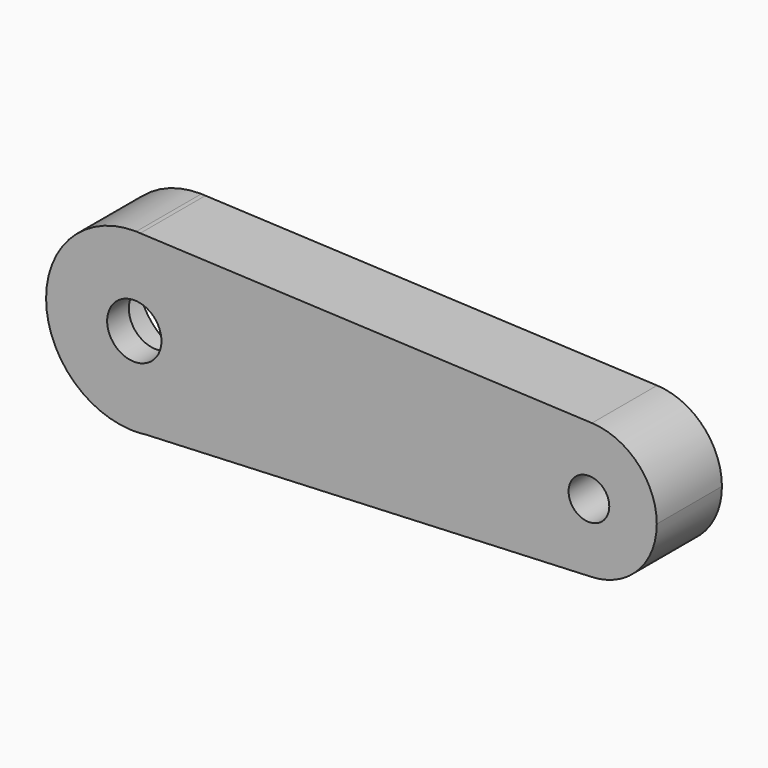
from build123d import *

# Parameters (mm, degrees)
F1_DEPTH = 6
F3_DEPTH = 4
F5_DEPTH = 2


with BuildPart() as f1:
    # F0 (on Front) → F1 (new body)
    with BuildSketch(Plane.XZ):
        with BuildLine():
            Line((0.5280444536, 6.5949463177), (0.2280896806, 6.6083750402))
            ThreePointArc((0.2280896806, 6.6083750402), (-4.4587573432, 4.7555534352), (-6.412563722, 0.1098970168))
            Line((-6.412563722, 0.1098970168), (-1.912563722, 0.1098970168))
            ThreePointArc((-1.912563722, 0.1098970168), (0.087436278, 2.1098970168), (2.087436278, 0.1098970168))
            Line((2.087436278, 0.1098970168), (6.587436278, 0.1098970168))
            ThreePointArc((6.587436278, 0.1098970168), (4.8368548288, 4.5475792304), (0.5280444536, 6.5949463177))
        make_face()
        with BuildLine():
            ThreePointArc((0.5280444536, 6.5949463177), (0.3781446168, 6.6033928905), (0.2280896806, 6.6083750402))
            Line((0.2280896806, 6.6083750402), (0.5280444536, 6.5949463177))
        make_face()
        with BuildLine():
            Line((-1.912563722, 0.1098970168), (-6.412563722, 0.1098970168))
            ThreePointArc((-6.412563722, 0.1098970168), (-4.6032413883, -4.3898299783), (-0.1825504819, -6.3844934203))
            Line((-0.1825504819, -6.3844934203), (0.92817218, -6.3355015856))
            ThreePointArc((0.92817218, -6.3355015856), (4.9718391772, -4.1787634173), (6.587436278, 0.1098970168))
            Line((6.587436278, 0.1098970168), (2.087436278, 0.1098970168))
            ThreePointArc((2.087436278, 0.1098970168), (0.087436278, -1.8901029832), (-1.912563722, 0.1098970168))
        make_face()
        with BuildLine():
            Line((33.8110580771, 5.1048938427), (0.5280444536, 6.5949463177))
            ThreePointArc((0.5280444536, 6.5949463177), (4.8368548288, 4.5475792304), (6.587436278, 0.1098970168))
            Line((6.587436278, 0.1098970168), (28.587436278, 0.1098970168))
            ThreePointArc((28.587436278, 0.1098970168), (30.1318689581, 3.7236283983), (33.8110580771, 5.1048938427))
        make_face()
        with BuildLine():
            Line((0.92817218, -6.3355015856), (-0.1825504819, -6.3844934203))
            ThreePointArc((-0.1825504819, -6.3844934203), (0.3738602571, -6.3837892479), (0.92817218, -6.3355015856))
        make_face()
        with BuildLine():
            Line((28.587436278, 0.1098970168), (6.587436278, 0.1098970168))
            ThreePointArc((6.587436278, 0.1098970168), (4.9718391772, -4.1787634173), (0.92817218, -6.3355015856))
            Line((0.92817218, -6.3355015856), (33.8077624157, -4.8852462637))
            ThreePointArc((33.8077624157, -4.8852462637), (30.1306770073, -3.5026942062), (28.587436278, 0.1098970168))
        make_face()
        with BuildLine():
            ThreePointArc((38.587436278, 0.1098970168), (37.2011676595, 3.5654643367), (33.8110580771, 5.1048938427))
            ThreePointArc((33.8110580771, 5.1048938427), (30.1318689581, 3.7236283983), (28.587436278, 0.1098970168))
            Line((28.587436278, 0.1098970168), (32.087436278, 0.1098970168))
            ThreePointArc((32.087436278, 0.1098970168), (33.587436278, 1.6098970168), (35.087436278, 0.1098970168))
            Line((35.087436278, 0.1098970168), (38.587436278, 0.1098970168))
        make_face()
        with BuildLine():
            Line((32.087436278, 0.1098970168), (28.587436278, 0.1098970168))
            ThreePointArc((28.587436278, 0.1098970168), (30.1306770073, -3.5026942062), (33.8077624157, -4.8852462637))
            ThreePointArc((33.8077624157, -4.8852462637), (37.200027501, -3.3468622539), (38.587436278, 0.1098970168))
            Line((38.587436278, 0.1098970168), (35.087436278, 0.1098970168))
            ThreePointArc((35.087436278, 0.1098970168), (33.587436278, -1.3901029832), (32.087436278, 0.1098970168))
        make_face()
    extrude(amount=F1_DEPTH)

    # F2 (on Front) → F3 (cut)
    with BuildSketch(Plane.XZ):
        with BuildLine():
            Line((2.8225806452, 0), (4.5, 0))
            ThreePointArc((4.5, 0), (4.0590400899, 1.9427283774), (2.8225806452, 3.5047166079))
            Line((2.8225806452, 3.5047166079), (2.8225806452, 0))
        make_face()
        with BuildLine():
            Line((13.5, 0), (4.5, 0))
            ThreePointArc((4.5, 0), (4.0590400899, -1.9427283774), (2.8225806452, -3.5047166079))
            Line((2.8225806452, -3.5047166079), (15.7336008924, -1.9863108073))
            ThreePointArc((15.7336008924, -1.9863108073), (14.1709405177, -1.4945236339), (13.5, 0))
        make_face()
        with BuildLine():
            ThreePointArc((2.8225806452, -3.5047166079), (4.0590400899, -1.9427283774), (4.5, 0))
            Line((4.5, 0), (2.8225806452, 0))
            Line((2.8225806452, 0), (2.8225806452, -3.5047166079))
        make_face()
        with BuildLine():
            ThreePointArc((2.8225806452, 3.5047166079), (4.0590400899, 1.9427283774), (4.5, 0))
            Line((4.5, 0), (13.5, 0))
            ThreePointArc((13.5, 0), (14.1709405177, 1.4945236339), (15.7336008924, 1.9863108073))
            Line((15.7336008924, 1.9863108073), (2.8225806452, 3.5047166079))
        make_face()
        with BuildLine():
            Line((2.8225806452, 0), (2.8225806452, 3.5047166079))
            ThreePointArc((2.8225806452, 3.5047166079), (1.496458363, 4.2438911824), (0, 4.5))
            Line((0, 4.5), (0, 0))
            Line((0, 0), (2.8225806452, 0))
        make_face()
        with BuildLine():
            ThreePointArc((0, -4.5), (1.496458363, -4.2438911824), (2.8225806452, -3.5047166079))
            Line((2.8225806452, -3.5047166079), (2.8225806452, 0))
            Line((2.8225806452, 0), (0, 0))
            Line((0, 0), (0, -4.5))
        make_face()
        with BuildLine():
            ThreePointArc((15.7336008924, 1.9863108073), (14.1709405177, 1.4945236339), (13.5, 0))
            ThreePointArc((13.5, 0), (14.1709405177, -1.4945236339), (15.7336008924, -1.9863108073))
            ThreePointArc((15.7336008924, -1.9863108073), (16.9945236339, -1.3290594823), (17.5, 0))
            ThreePointArc((17.5, 0), (16.9945236339, 1.3290594823), (15.7336008924, 1.9863108073))
        make_face()
        with BuildLine():
            Line((0, 0), (0, 4.5))
            ThreePointArc((0, 4.5), (-3.1819805153, 3.1819805153), (-4.5, 0))
            Line((-4.5, 0), (0, 0))
        make_face()
        with BuildLine():
            ThreePointArc((-4.5, 0), (-3.1819805153, -3.1819805153), (0, -4.5))
            Line((0, -4.5), (0, 0))
            Line((0, 0), (-4.5, 0))
        make_face()
    extrude(amount=F3_DEPTH, mode=Mode.SUBTRACT)

    # F4 (on face) → F5 (cut)
    with BuildSketch(Plane(origin=(0, 0, 0), x_dir=(-1, 0, 0), z_dir=(0, 1, 0))):
        with BuildLine():
            ThreePointArc((-16.0594756914, -3.4959212069), (-19.2027878035, -0.0038572282), (-15.9837236084, 3.418502714))
            Line((-15.9837236084, 3.418502714), (-32.5201968963, 2.8216355423))
            ThreePointArc((-32.5201968963, 2.8216355423), (-31.2720018674, 0.0697774052), (-32.4186347425, -2.7259241324))
            Line((-32.4186347425, -2.7259241324), (-16.0594756914, -3.4959212069))
        make_face()
    extrude(amount=-F5_DEPTH, mode=Mode.SUBTRACT)


solid = f1.part
